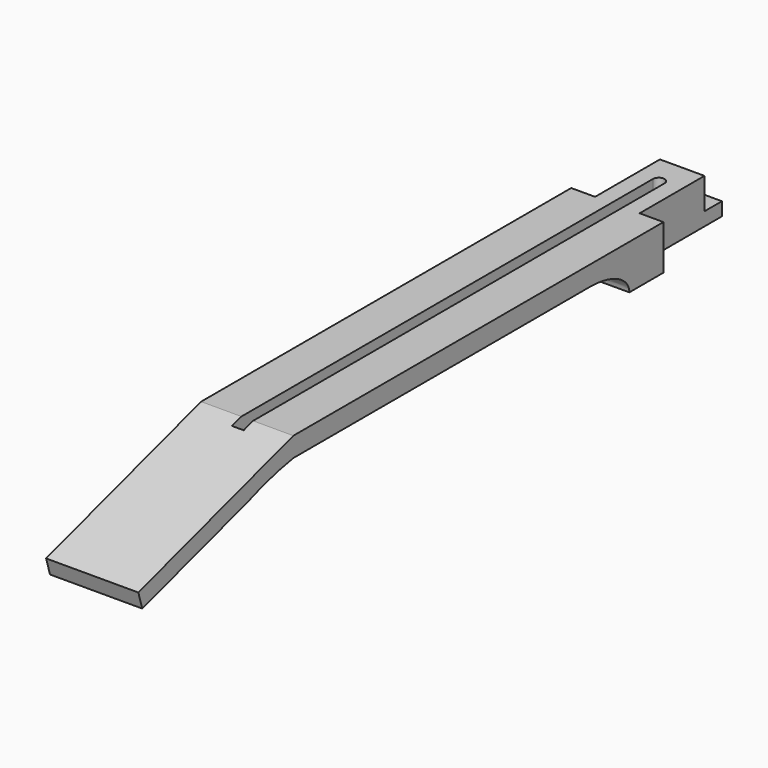
from build123d import *

# Parameters (mm, degrees)
F1_DEPTH  = 39.45
F2_W      = 36.9970819473
F2_H      = 107.2933008075
F10_DEPTH = 64.5390001
F3_R      = 5
F4_DEPTH  = 20
F6_W      = 10
F6_H      = 31.76
F7_DEPTH  = 450


with BuildPart() as f1:
    # F0 (on Right) → F1 (new body, symmetric)
    with BuildSketch(Plane.YZ):
        with BuildLine():
            Line((-124.5, 0), (0, 0))
            Line((0, 0), (0, 11.4))
            Line((0, 11.4), (-18.67, 11.4))
            Line((-18.67, 11.4), (-18.67, 38.1))
            Line((-18.67, 38.1), (-483.73, 38.1))
            Line((-483.73, 38.1), (-649.4693797859, -12.5716135265))
            Line((-649.4693797859, -12.5716135265), (-645.23, -26.438))
            Line((-645.23, -26.438), (-532.73, 7.9567016641))
            ThreePointArc((-532.73, 7.9567016641), (-508.5696932883, 15.8757913603), (-483.73, 21.3))
            Line((-483.73, 21.3), (-425.73, 21.3))
            Line((-425.73, 21.3), (-166.5, 21.3))
            add(Edge.make_bspline(
                [(-124.5, 0), (-124.5, 21.3), (-166.5, 21.3)],
                knots=[0, 0, 0, 1.5707963268, 1.5707963268, 1.5707963268], degree=2, weights=[1, 0.7071067812, 1]))
        make_face()
    extrude(amount=F1_DEPTH, both=True)

    # F2 (on face) → F10 (cut, through all)
    with BuildSketch(Plane.XY.offset(38.1)):
        with Locations((37.5485409737, -34.3533495963)):
            Rectangle(F2_W, F2_H)
        with Locations((-37.5485409737, -34.3533495963)):
            Rectangle(F2_W, F2_H)
    extrude(amount=-F10_DEPTH, mode=Mode.SUBTRACT)

    # F3 (on face) → F4 (cut)
    with BuildSketch(Plane.XY.offset(38.1)):
        with Locations((0, -43.71)):
            Circle(F3_R)
    extrude(amount=-F4_DEPTH, mode=Mode.SUBTRACT)

    # F6 (on plane+point) → F7 (cut)
    with BuildSketch(Plane.XZ.offset(43.71)):
        with Locations((0, 38.4264938357)):
            Rectangle(F6_W, F6_H)
    extrude(amount=F7_DEPTH, mode=Mode.SUBTRACT)


solid = f1.part
